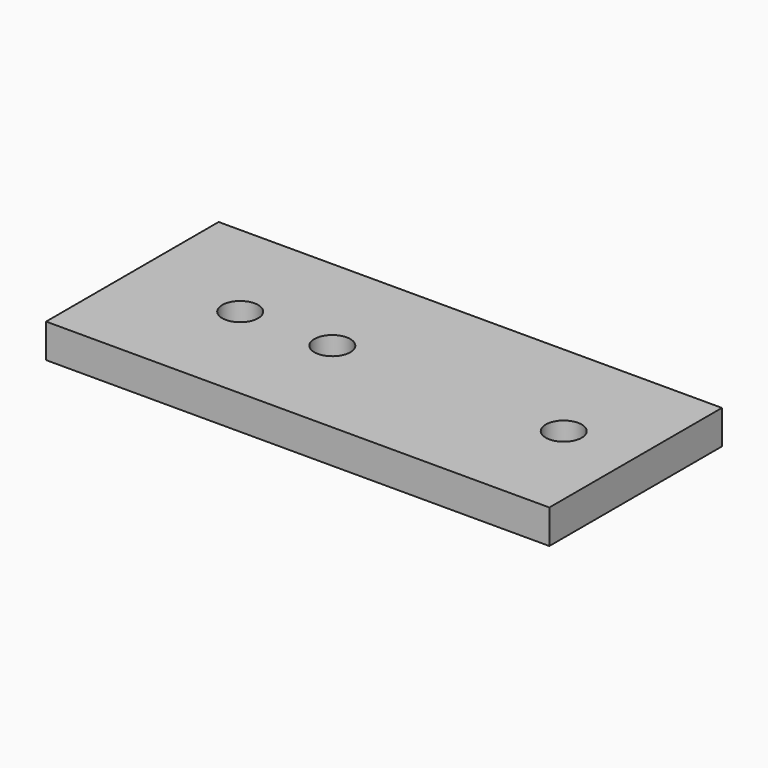
from build123d import *

# Parameters (mm, degrees)
F0_W     = 774.7
F0_H     = 76.2
F1_DEPTH = 5.9944
F2_R     = 6.35
F3_DEPTH = 11.9888
F4_R     = 6.35
F5_DEPTH = 11.9888
F6_W     = 596.9
F6_H     = 76.2
F7_DEPTH = 11.9888


with BuildPart() as f1:
    # F0 (on Top) → F1 (new body, symmetric)
    with BuildSketch(Plane.XY):
        Rectangle(F0_W, F0_H)
    extrude(amount=F1_DEPTH, both=True)

    # F2 (on face) → F3 (cut, through all)
    with BuildSketch(Plane(origin=(0, 0, -5.9944), x_dir=(1, 0, 0), z_dir=(0, 0, -1))):
        with Locations((-316.70625, 0)):
            Circle(F2_R)
        with Locations((323.85, 0)):
            Circle(F2_R)
    extrude(amount=-F3_DEPTH, mode=Mode.SUBTRACT)

    # F4 (on face) → F5 (cut, through all)
    with BuildSketch(Plane.XY.offset(5.9944)):
        with Locations((-349.25, 0)):
            Circle(F4_R)
        with Locations((-234.95, 0)):
            Circle(F4_R)
    extrude(amount=-F5_DEPTH, mode=Mode.SUBTRACT)

    # F6 (on face) → F7 (cut, through all)
    with BuildSketch(Plane.XY.offset(5.9944)):
        with Locations((88.9, 0)):
            Rectangle(F6_W, F6_H)
    extrude(amount=-F7_DEPTH, mode=Mode.SUBTRACT)


solid = f1.part
